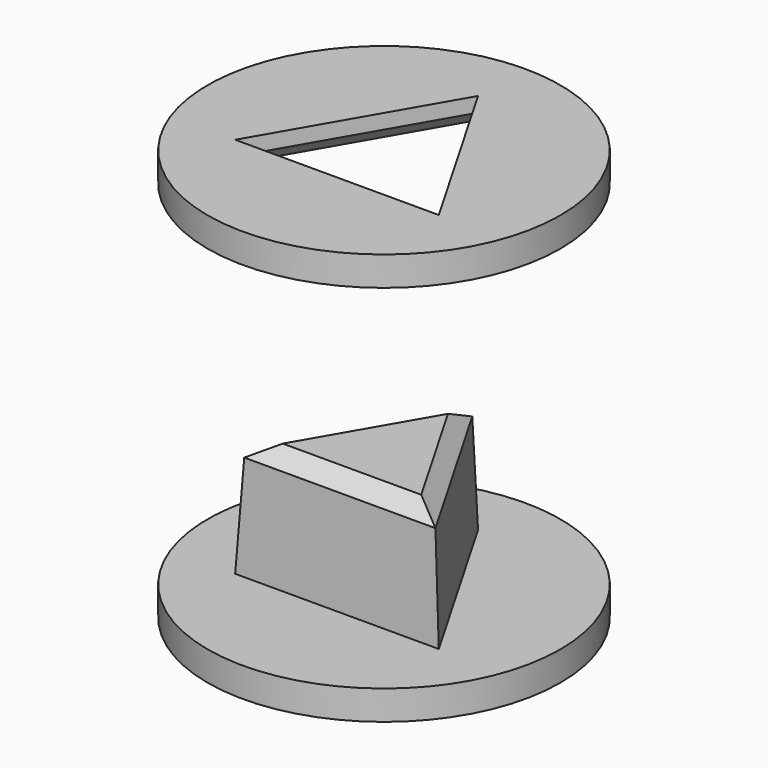
from build123d import *

# Parameters (mm, degrees)
F0_R      = 19.05
F1_DEPTH  = 3.175
F3_DEPTH  = 12.7
F3_TAPER  = 2
F5_R      = 19.05
F6_DEPTH  = 3.175
F7_SIZE   = 1.5875
F7_2_SIZE = 1.5875


with BuildPart() as f1:
    # F0 (on Top) → F1 (new body)
    with BuildSketch(Plane.XY):
        Circle(F0_R)
        Polygon((-10.9985226281, -6.35), (0, 12.7), (10.9985226281, -6.35), align=None, mode=Mode.SUBTRACT)
        Polygon((10.9985226281, -6.35), (0, 12.7), (-10.9985226281, -6.35), align=None)
    extrude(amount=F1_DEPTH)

    # F2 (on face) → F3 (join)
    with BuildSketch(Plane.XY.offset(3.175)):
        Polygon((10.9985226281, -6.35), (0, 12.7), (-10.9985226281, -6.35), align=None)
    extrude(amount=F3_DEPTH, taper=F3_TAPER)

    # F7
    f7_edges = [f1.edges().sort_by_distance(p)[0] for p in [
        (5.115184, 2.953253, 15.875),
        (0, -5.906506, 15.875),
        (-5.115184, 2.953253, 15.875),
    ]]
    chamfer(f7_edges, length=F7_SIZE)


with BuildPart() as f6:
    # F5 (on offset) → F6 (new body)
    with BuildSketch(Plane.XY.offset(41.275)):
        Circle(F5_R)
        Polygon((-10.9985226281, -6.35), (0, 12.7), (10.9985226281, -6.35), align=None, mode=Mode.SUBTRACT)
    extrude(amount=F6_DEPTH)

    # F7#2
    f7_2_edges = [f6.edges().sort_by_distance(p)[0] for p in [
        (-5.499261, 3.175, 41.275),
        (5.499261, 3.175, 41.275),
        (0, -6.35, 41.275),
    ]]
    chamfer(f7_2_edges, length=F7_2_SIZE)


solid = Compound([f1.part, f6.part])
